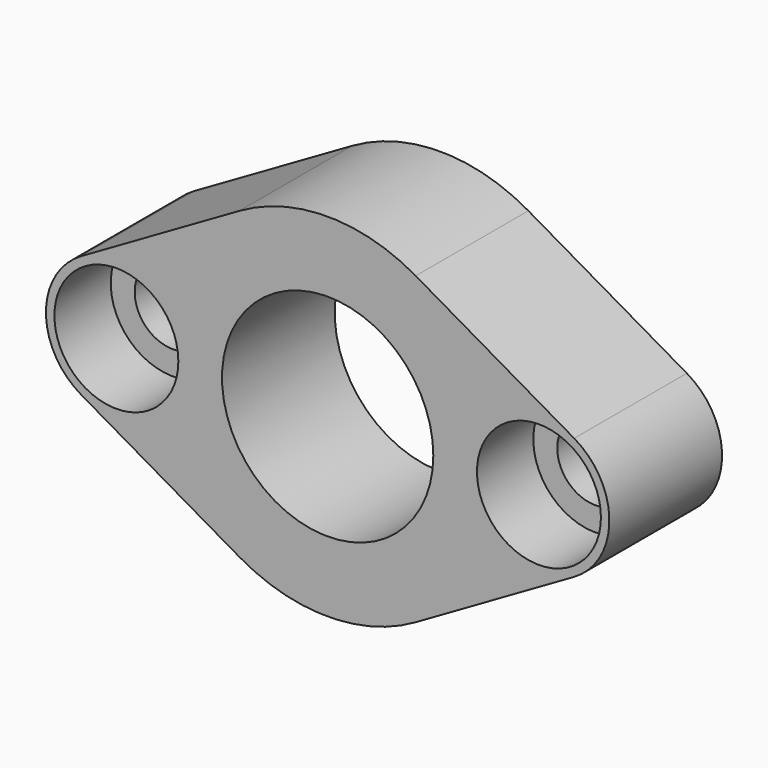
from build123d import *

# Parameters (mm, degrees)
F0_R     = 3.429
F0_R_2   = 9.525
F1_DEPTH = 12.7
F2_R     = 5.588
F2_R_2   = 3.429
F3_DEPTH = 6.35


with BuildPart() as f1:
    # F0 (on Front) → F1 (new body)
    with BuildSketch(Plane.XZ):
        with BuildLine():
            Line((-7.9375, 13.748153), (-22.225, 5.499261))
            ThreePointArc((-22.225, 5.499261), (-25.4, 0), (-22.225, -5.499261))
            Line((-22.225, -5.499261), (-7.9375, -13.748153))
            ThreePointArc((-7.9375, -13.748153), (0, -15.875), (7.9375, -13.748153))
            Line((7.9375, -13.748153), (22.225, -5.499261))
            ThreePointArc((22.225, -5.499261), (25.4, 0), (22.225, 5.499261))
            Line((22.225, 5.499261), (7.9375, 13.748153))
            ThreePointArc((7.9375, 13.748153), (0, 15.875), (-7.9375, 13.748153))
        make_face()
        with Locations((-19.05, 0)):
            Circle(F0_R, mode=Mode.SUBTRACT)
        Circle(F0_R_2, mode=Mode.SUBTRACT)
        with Locations((19.05, 0)):
            Circle(F0_R, mode=Mode.SUBTRACT)
    extrude(amount=F1_DEPTH)

    # F2 (on face) → F3 (cut)
    with BuildSketch(Plane.XZ.offset(12.7)):
        with Locations((-19.05, 0)):
            Circle(F2_R)
        with Locations((-19.05, 0)):
            Circle(F2_R_2, mode=Mode.SUBTRACT)
        with Locations((19.05, 0)):
            Circle(F2_R)
        with Locations((19.05, 0)):
            Circle(F2_R_2, mode=Mode.SUBTRACT)
    extrude(amount=-F3_DEPTH, mode=Mode.SUBTRACT)


solid = f1.part
